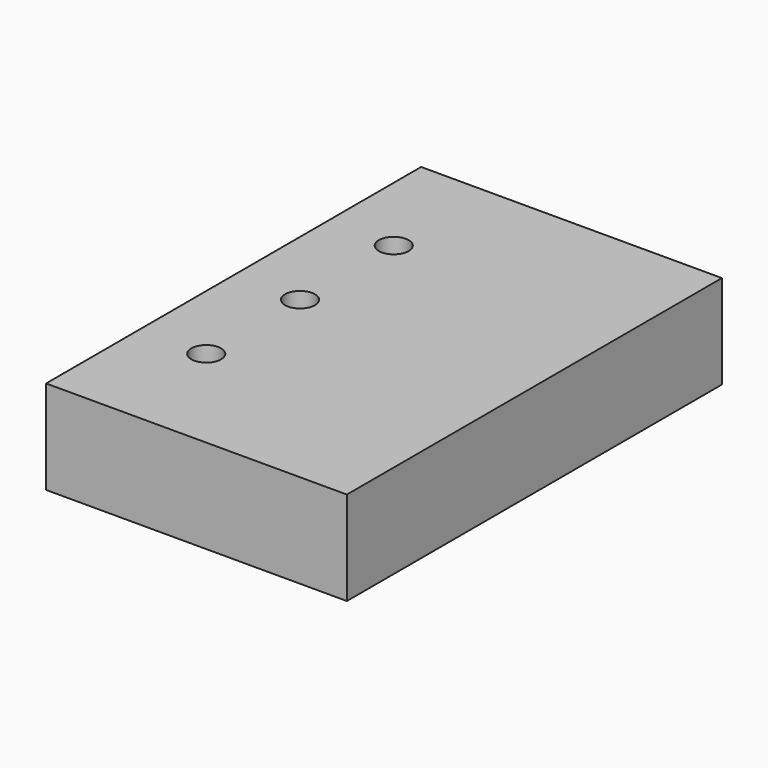
from build123d import *

# Parameters (mm, degrees)
F0_W     = 32.59438
F0_H     = 50.8
F0_R     = 1.6129
F1_DEPTH = 10.16


with BuildPart() as f1:
    # F0 (on Top) → F1 (new body)
    with BuildSketch(Plane.XY):
        with Locations((34.50281, 25.4)):
            Rectangle(F0_W, F0_H)
        with Locations((25.4, 12.7)):
            Circle(F0_R, mode=Mode.SUBTRACT)
        with Locations((25.4, 25.4)):
            Circle(F0_R, mode=Mode.SUBTRACT)
        with Locations((25.4, 38.1)):
            Circle(F0_R, mode=Mode.SUBTRACT)
    extrude(amount=F1_DEPTH)


solid = f1.part
